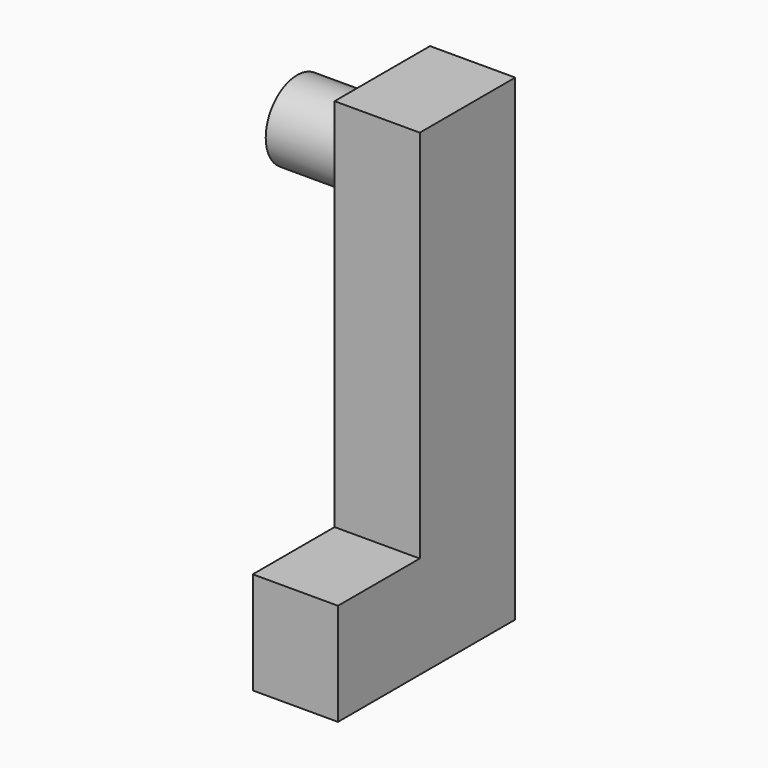
from build123d import *

# Parameters (mm, degrees)
F1_DEPTH = 6.35
F2_R     = 2.921
F3_DEPTH = 6.35


with BuildPart() as f1:
    # F0 (on Right) → F1 (new body)
    with BuildSketch(Plane.YZ):
        Polygon((-16.51, 0), (0, 0), (0, 35.56), (-8.89, 35.56), (-8.89, 7.62), (-16.51, 7.62), align=None)
    extrude(amount=F1_DEPTH)

    # F2 (on face) → F3 (join)
    with BuildSketch(Plane(origin=(0, 0, 0), x_dir=(0, -1, 0), z_dir=(-1, 0, 0))):
        with Locations((4.445, 30.48)):
            Circle(F2_R)
    extrude(amount=F3_DEPTH)


solid = f1.part
